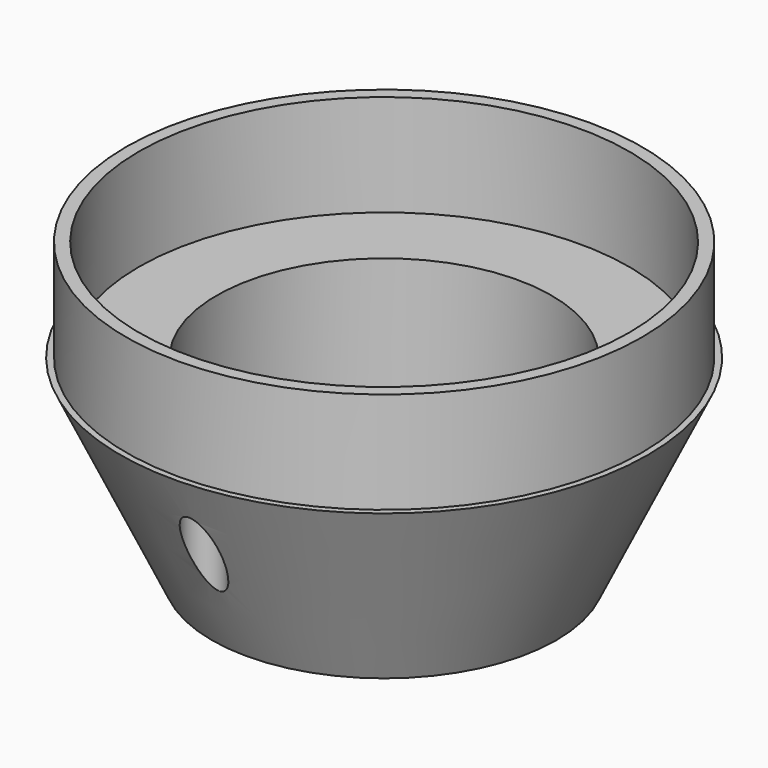
from build123d import *

# Parameters (mm, degrees)
F0_W     = 1.5875
F0_H     = 12.7
F2_R     = 2.38125
F3_DEPTH = 32.9692
F4_R     = 43.342469
F5_DEPTH = 1.27


with BuildPart() as f1:
    # F0 (on Front) → F1 (revolve)
    with BuildSketch(Plane.XZ):
        Polygon((30.6705, 25.4), (20.955, 25.4), (20.955, 0), (33.02, 25.4), (32.258, 25.4), align=None)
        with Locations((31.46425, 31.75)):
            Rectangle(F0_W, F0_H)
    revolve(axis=Axis((0, 0, 24.195854), (0, 0, 1)))

    # F2 (on face) → F3 (cut)
    with BuildSketch(Plane.XY.offset(25.4)):
        with Locations((0, -28.159229)):
            Circle(F2_R)
    extrude(amount=-F3_DEPTH, mode=Mode.SUBTRACT)

    # F4 (on Top) → F5 (cut)
    with BuildSketch(Plane.XY):
        Circle(F4_R)
    extrude(amount=F5_DEPTH, mode=Mode.SUBTRACT)


solid = f1.part
